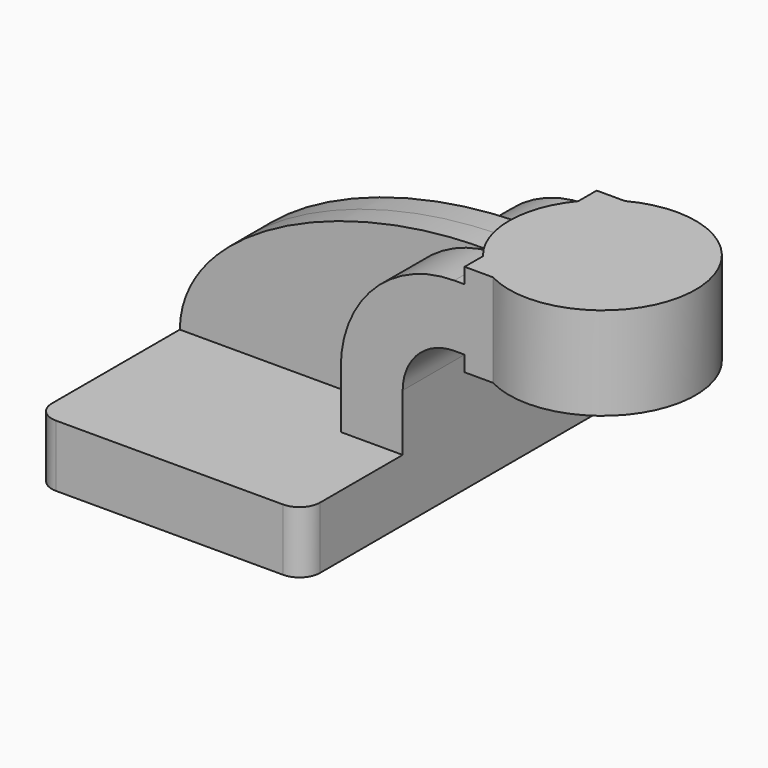
from build123d import *

# Parameters (mm, degrees)
F1_DEPTH = 63.5
F2_DEPTH = 25.4
F3_DEPTH = 7.9375
F0_W     = 28.7093819976
F0_H     = 28.575
F5_R     = 6.35


with BuildPart() as f1:
    # F0 (on Front) → F1 (new body, symmetric)
    with BuildSketch(Plane.XZ):
        Polygon((41.275, -9.525), (41.275, 9.525), (22.225, 9.525), (-41.275, 9.525), (-41.275, -9.525), align=None)
    extrude(amount=F1_DEPTH, both=True)

    # F0 (on Front) → F2 (join, symmetric)
    with BuildSketch(Plane.XZ):
        with BuildLine():
            Line((22.225, 9.525), (41.275, 9.525))
            Line((41.275, 9.525), (41.275, 27.0002))
            ThreePointArc((41.275, 27.0002), (45.9246798487, 38.2255201513), (57.15, 42.8752))
            Line((57.15, 42.8752), (60.325, 42.8752))
            Line((60.325, 42.8752), (60.325, 61.9252))
            Line((60.325, 61.9252), (57.15, 61.9252))
            ThreePointArc((57.15, 61.9252), (32.4542956671, 51.6959043329), (22.225, 27.0002))
            Line((22.225, 27.0002), (22.225, 9.525))
        make_face()
        Polygon((60.325, 61.9252), (60.325, 42.8752), (60.325, 38.1), (82.4156180024, 38.1), (82.4156180024, 66.675), (60.325, 66.675), align=None)
    extrude(amount=F2_DEPTH, both=True)

    # F0 (on Front) → F3 (join, symmetric)
    with BuildSketch(Plane.XZ):
        with BuildLine():
            Line((-41.275, 9.525), (22.225, 9.525))
            Line((22.225, 9.525), (22.225, 27.0002))
            ThreePointArc((22.225, 27.0002), (32.4542956671, 51.6959043329), (57.15, 61.9252))
            add(Edge.make_bspline(
                [(-41.275, 9.525), (-40.8948995173, 39.7248640656), (9.798577653, 63.5863382701), (57.15, 61.9252)],
                knots=[0, 0, 0, 0, 111.5045361635, 111.5045361635, 111.5045361635, 111.5045361635], degree=3))
        make_face()
    extrude(amount=F3_DEPTH, both=True)

    # F0 (on Front) → F4 (revolve)
    with BuildSketch(Plane.XZ):
        with Locations((96.7703090012, 52.3875)):
            Rectangle(F0_W, F0_H)
    revolve(axis=Axis((82.4156180024, 0, 52.3875), (0, 0, 1)))

    # F5
    f5_edges = [f1.edges().sort_by_distance(p)[0] for p in [
        (-41.275, -63.5, 0),
        (41.275, -63.5, 0),
        (41.275, 63.5, 0),
        (-41.275, 63.5, 0),
    ]]
    fillet(f5_edges, radius=F5_R)


solid = f1.part
